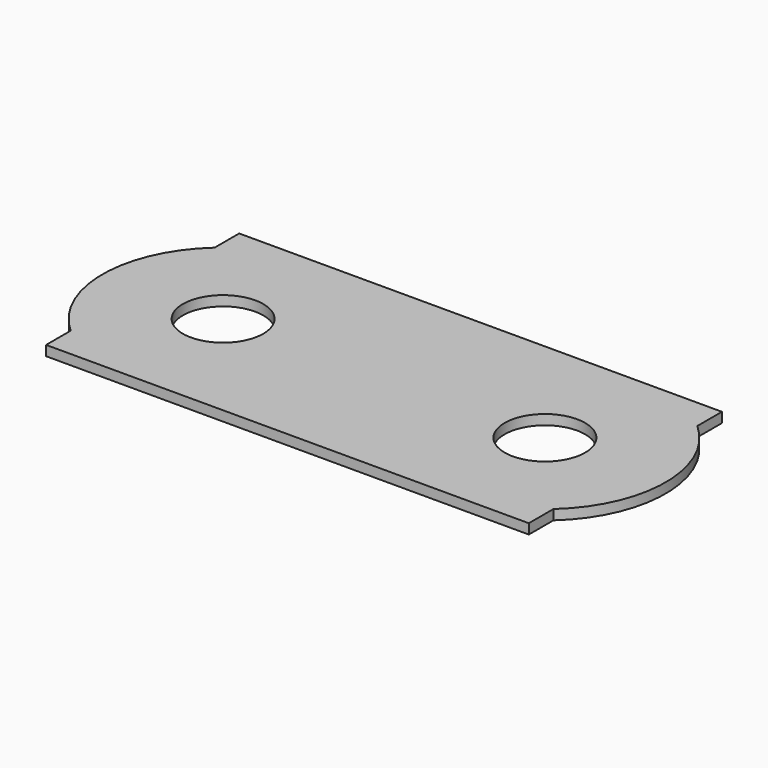
from build123d import *

# Parameters (mm, degrees)
F0_R     = 6.35
F1_DEPTH = 1.5748


with BuildPart() as f1:
    # F0 (on Top) → F1 (new body)
    with BuildSketch(Plane.XY):
        with BuildLine():
            Line((38.1, 19.05), (-38.1, 19.05))
            Line((-38.1, 19.05), (-38.1, 14.199032))
            ThreePointArc((-38.1, 14.199032), (-44.45, 0), (-38.1, -14.199032))
            Line((-38.1, -14.199032), (-38.1, -19.05))
            Line((-38.1, -19.05), (38.1, -19.05))
            Line((38.1, -19.05), (38.1, -14.199032))
            ThreePointArc((38.1, -14.199032), (44.45, 0), (38.1, 14.199032))
            Line((38.1, 14.199032), (38.1, 19.05))
        make_face()
        with Locations((-25.4, 0)):
            Circle(F0_R, mode=Mode.SUBTRACT)
        with Locations((25.4, 0)):
            Circle(F0_R, mode=Mode.SUBTRACT)
    extrude(amount=F1_DEPTH)


solid = f1.part
